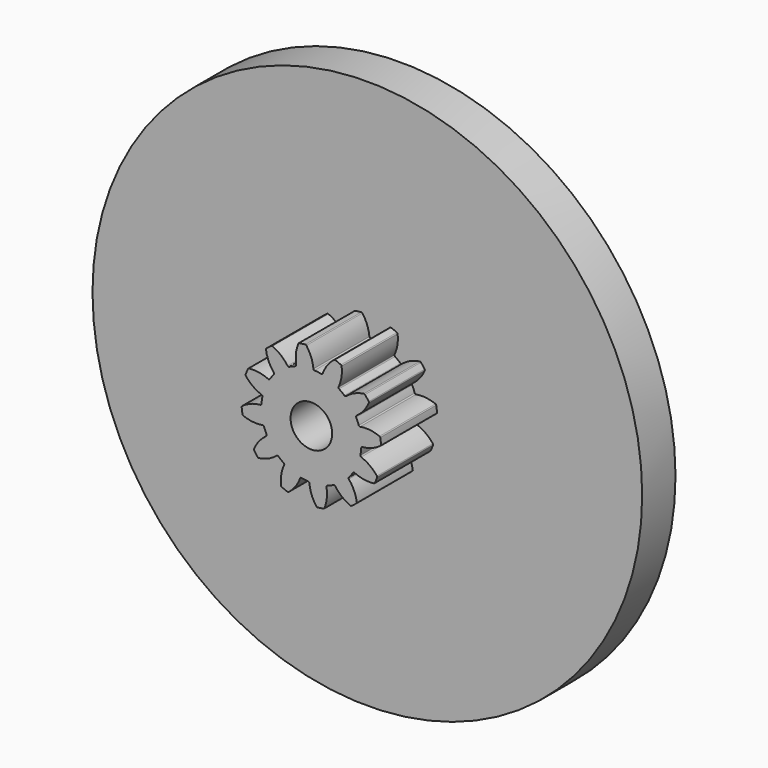
from build123d import *

# Parameters (mm, degrees)
F1_DEPTH      = 4.2
F2_R          = 16.5
F3_DEPTH      = 2.5
F4_R          = 1
F5_DEPTH      = 3.8
F6_R          = 1.25
F7_DEPTH      = 25
F7_DEPTH_BACK = 25


with BuildPart() as f1:
    # F0 (on Front) → F1 (new body)
    with BuildSketch(Plane.XZ):
        with BuildLine():
            ThreePointArc((0.121161, 3.059337), (-0.013724, 3.636669), (-0.300495, 4.15558))
            ThreePointArc((-0.300495, 4.15558), (-0.328732, 4.178157), (-0.364383, 4.184164))
            ThreePointArc((-0.364383, 4.184164), (-0.54821, 4.164068), (-0.730974, 4.135901))
            ThreePointArc((-0.730974, 4.135901), (-0.763856, 4.120872), (-0.785287, 4.091756))
            ThreePointArc((-0.785287, 4.091756), (-0.927983, 3.516305), (-0.908847, 2.923734))
            ThreePointArc((-0.908847, 2.923734), (-0.917985, 2.874655), (-0.956845, 2.843316))
            ThreePointArc((-0.956845, 2.843316), (-1.14805, 2.771639), (-1.333937, 2.68712))
            ThreePointArc((-1.333937, 2.68712), (-1.826284, 2.38006), (-2.25031, 1.983962))
            ThreePointArc((-2.25031, 1.983962), (-2.38006, 1.826284), (-2.498783, 1.660146))
            ThreePointArc((-2.498783, 1.660146), (-2.771639, 1.14805), (-2.940807, 0.593006))
            ThreePointArc((-2.940807, 0.593006), (-2.974335, 0.391579), (-2.994082, 0.188337))
            ThreePointArc((-2.994082, 0.188337), (-2.974335, -0.391579), (-2.843316, -0.956845))
            ThreePointArc((-2.843316, -0.956845), (-2.771639, -1.14805), (-2.68712, -1.333937))
            ThreePointArc((-2.68712, -1.333937), (-2.38006, -1.826284), (-1.983962, -2.25031))
            ThreePointArc((-1.983962, -2.25031), (-1.826284, -2.38006), (-1.660146, -2.498783))
            ThreePointArc((-1.660146, -2.498783), (-1.14805, -2.771639), (-0.593006, -2.940807))
            ThreePointArc((-0.593006, -2.940807), (-0.391579, -2.974335), (-0.188337, -2.994082))
            ThreePointArc((-0.188337, -2.994082), (0.391579, -2.974335), (0.956845, -2.843316))
            ThreePointArc((0.956845, -2.843316), (1.14805, -2.771639), (1.333937, -2.68712))
            ThreePointArc((1.333937, -2.68712), (1.826284, -2.38006), (2.25031, -1.983962))
            ThreePointArc((2.25031, -1.983962), (2.38006, -1.826284), (2.498783, -1.660146))
            ThreePointArc((2.498783, -1.660146), (2.771639, -1.14805), (2.940807, -0.593006))
            ThreePointArc((2.940807, -0.593006), (2.974335, -0.391579), (2.994082, -0.188337))
            ThreePointArc((2.994082, -0.188337), (2.974335, 0.391579), (2.843316, 0.956845))
            ThreePointArc((2.843316, 0.956845), (2.771639, 1.14805), (2.68712, 1.333937))
            ThreePointArc((2.68712, 1.333937), (2.38006, 1.826284), (1.983962, 2.25031))
            ThreePointArc((1.983962, 2.25031), (1.826284, 2.38006), (1.660146, 2.498783))
            ThreePointArc((1.660146, 2.498783), (1.14805, 2.771639), (0.593006, 2.940807))
            ThreePointArc((0.593006, 2.940807), (0.391579, 2.974335), (0.188337, 2.994082))
            ThreePointArc((0.188337, 2.994082), (0.14269, 3.014295), (0.121161, 3.059337))
        make_face()
        with BuildLine():
            ThreePointArc((0.674783, 2.986451), (0.64233, 2.948516), (0.593006, 2.940807))
            ThreePointArc((0.593006, 2.940807), (1.14805, 2.771639), (1.660146, 2.498783))
            ThreePointArc((1.660146, 2.498783), (1.63072, 2.539112), (1.634597, 2.588883))
            ThreePointArc((1.634597, 2.588883), (1.806449, 3.15631), (1.817554, 3.749085))
            ThreePointArc((1.817554, 3.749085), (1.804388, 3.782756), (1.776517, 3.805783))
            ThreePointArc((1.776517, 3.805783), (1.60727, 3.880294), (1.434908, 3.947282))
            ThreePointArc((1.434908, 3.947282), (1.398917, 3.950708), (1.365799, 3.936208))
            ThreePointArc((1.365799, 3.936208), (0.954496, 3.5092), (0.674783, 2.986451))
        make_face()
        with BuildLine():
            ThreePointArc((2.077604, 2.248951), (2.030532, 2.232325), (1.983962, 2.25031))
            ThreePointArc((1.983962, 2.25031), (2.38006, 1.826284), (2.68712, 1.333937))
            ThreePointArc((2.68712, 1.333937), (2.681801, 1.383575), (2.710044, 1.42474))
            ThreePointArc((2.710044, 1.42474), (3.142586, 1.83022), (3.44859, 2.338026))
            ThreePointArc((3.44859, 2.338026), (3.454024, 2.373769), (3.441401, 2.407647))
            ThreePointArc((3.441401, 2.407647), (3.332084, 2.556798), (3.216308, 2.700993))
            ThreePointArc((3.216308, 2.700993), (3.186852, 2.721955), (3.150921, 2.725957))
            ThreePointArc((3.150921, 2.725957), (2.581218, 2.561809), (2.077604, 2.248951))
        make_face()
        with BuildLine():
            ThreePointArc((-2.25031, 1.983962), (-1.826284, 2.38006), (-1.333937, 2.68712))
            ThreePointArc((-1.333937, 2.68712), (-1.383575, 2.681801), (-1.42474, 2.710044))
            ThreePointArc((-1.42474, 2.710044), (-1.83022, 3.142586), (-2.338026, 3.44859))
            ThreePointArc((-2.338026, 3.44859), (-2.373769, 3.454024), (-2.407647, 3.441401))
            ThreePointArc((-2.407647, 3.441401), (-2.556798, 3.332084), (-2.700993, 3.216308))
            ThreePointArc((-2.700993, 3.216308), (-2.721955, 3.186852), (-2.725957, 3.150921))
            ThreePointArc((-2.725957, 3.150921), (-2.561809, 2.581218), (-2.248951, 2.077604))
            ThreePointArc((-2.248951, 2.077604), (-2.232325, 2.030532), (-2.25031, 1.983962))
        make_face()
        with BuildLine():
            ThreePointArc((2.923734, 0.908847), (2.874655, 0.917985), (2.843316, 0.956845))
            ThreePointArc((2.843316, 0.956845), (2.974335, 0.391579), (2.994082, -0.188337))
            ThreePointArc((2.994082, -0.188337), (3.014295, -0.14269), (3.059337, -0.121161))
            ThreePointArc((3.059337, -0.121161), (3.636669, 0.013724), (4.15558, 0.300495))
            ThreePointArc((4.15558, 0.300495), (4.178157, 0.328732), (4.184164, 0.364383))
            ThreePointArc((4.184164, 0.364383), (4.164068, 0.54821), (4.135901, 0.730974))
            ThreePointArc((4.135901, 0.730974), (4.120872, 0.763856), (4.091756, 0.785287))
            ThreePointArc((4.091756, 0.785287), (3.516305, 0.927983), (2.923734, 0.908847))
        make_face()
        with BuildLine():
            ThreePointArc((-2.940807, 0.593006), (-2.771639, 1.14805), (-2.498783, 1.660146))
            ThreePointArc((-2.498783, 1.660146), (-2.539112, 1.63072), (-2.588883, 1.634597))
            ThreePointArc((-2.588883, 1.634597), (-3.15631, 1.806449), (-3.749085, 1.817554))
            ThreePointArc((-3.749085, 1.817554), (-3.782756, 1.804388), (-3.805783, 1.776517))
            ThreePointArc((-3.805783, 1.776517), (-3.880294, 1.60727), (-3.947282, 1.434908))
            ThreePointArc((-3.947282, 1.434908), (-3.950708, 1.398917), (-3.936208, 1.365799))
            ThreePointArc((-3.936208, 1.365799), (-3.5092, 0.954496), (-2.986451, 0.674783))
            ThreePointArc((-2.986451, 0.674783), (-2.948516, 0.64233), (-2.940807, 0.593006))
        make_face()
        with BuildLine():
            ThreePointArc((2.986451, -0.674783), (2.948516, -0.64233), (2.940807, -0.593006))
            ThreePointArc((2.940807, -0.593006), (2.771639, -1.14805), (2.498783, -1.660146))
            ThreePointArc((2.498783, -1.660146), (2.539112, -1.63072), (2.588883, -1.634597))
            ThreePointArc((2.588883, -1.634597), (3.15631, -1.806449), (3.749085, -1.817554))
            ThreePointArc((3.749085, -1.817554), (3.782756, -1.804388), (3.805783, -1.776517))
            ThreePointArc((3.805783, -1.776517), (3.880294, -1.60727), (3.947282, -1.434908))
            ThreePointArc((3.947282, -1.434908), (3.950708, -1.398917), (3.936208, -1.365799))
            ThreePointArc((3.936208, -1.365799), (3.5092, -0.954496), (2.986451, -0.674783))
        make_face()
        with BuildLine():
            ThreePointArc((-2.843316, -0.956845), (-2.974335, -0.391579), (-2.994082, 0.188337))
            ThreePointArc((-2.994082, 0.188337), (-3.014295, 0.14269), (-3.059337, 0.121161))
            ThreePointArc((-3.059337, 0.121161), (-3.636669, -0.013724), (-4.15558, -0.300495))
            ThreePointArc((-4.15558, -0.300495), (-4.178157, -0.328732), (-4.184164, -0.364383))
            ThreePointArc((-4.184164, -0.364383), (-4.164068, -0.54821), (-4.135901, -0.730974))
            ThreePointArc((-4.135901, -0.730974), (-4.120872, -0.763856), (-4.091756, -0.785287))
            ThreePointArc((-4.091756, -0.785287), (-3.516305, -0.927983), (-2.923734, -0.908847))
            ThreePointArc((-2.923734, -0.908847), (-2.874655, -0.917985), (-2.843316, -0.956845))
        make_face()
        with BuildLine():
            ThreePointArc((2.248951, -2.077604), (2.232325, -2.030532), (2.25031, -1.983962))
            ThreePointArc((2.25031, -1.983962), (1.826284, -2.38006), (1.333937, -2.68712))
            ThreePointArc((1.333937, -2.68712), (1.383575, -2.681801), (1.42474, -2.710044))
            ThreePointArc((1.42474, -2.710044), (1.83022, -3.142586), (2.338026, -3.44859))
            ThreePointArc((2.338026, -3.44859), (2.373769, -3.454024), (2.407647, -3.441401))
            ThreePointArc((2.407647, -3.441401), (2.556798, -3.332084), (2.700993, -3.216308))
            ThreePointArc((2.700993, -3.216308), (2.721955, -3.186852), (2.725957, -3.150921))
            ThreePointArc((2.725957, -3.150921), (2.561809, -2.581218), (2.248951, -2.077604))
        make_face()
        with BuildLine():
            ThreePointArc((-1.983962, -2.25031), (-2.38006, -1.826284), (-2.68712, -1.333937))
            ThreePointArc((-2.68712, -1.333937), (-2.681801, -1.383575), (-2.710044, -1.42474))
            ThreePointArc((-2.710044, -1.42474), (-3.142586, -1.83022), (-3.44859, -2.338026))
            ThreePointArc((-3.44859, -2.338026), (-3.454024, -2.373769), (-3.441401, -2.407647))
            ThreePointArc((-3.441401, -2.407647), (-3.332084, -2.556798), (-3.216308, -2.700993))
            ThreePointArc((-3.216308, -2.700993), (-3.186852, -2.721955), (-3.150921, -2.725957))
            ThreePointArc((-3.150921, -2.725957), (-2.581218, -2.561809), (-2.077604, -2.248951))
            ThreePointArc((-2.077604, -2.248951), (-2.030532, -2.232325), (-1.983962, -2.25031))
        make_face()
        with BuildLine():
            ThreePointArc((0.908847, -2.923734), (0.917985, -2.874655), (0.956845, -2.843316))
            ThreePointArc((0.956845, -2.843316), (0.391579, -2.974335), (-0.188337, -2.994082))
            ThreePointArc((-0.188337, -2.994082), (-0.14269, -3.014295), (-0.121161, -3.059337))
            ThreePointArc((-0.121161, -3.059337), (0.013724, -3.636669), (0.300495, -4.15558))
            ThreePointArc((0.300495, -4.15558), (0.328732, -4.178157), (0.364383, -4.184164))
            ThreePointArc((0.364383, -4.184164), (0.54821, -4.164068), (0.730974, -4.135901))
            ThreePointArc((0.730974, -4.135901), (0.763856, -4.120872), (0.785287, -4.091756))
            ThreePointArc((0.785287, -4.091756), (0.927983, -3.516305), (0.908847, -2.923734))
        make_face()
        with BuildLine():
            ThreePointArc((-0.593006, -2.940807), (-1.14805, -2.771639), (-1.660146, -2.498783))
            ThreePointArc((-1.660146, -2.498783), (-1.63072, -2.539112), (-1.634597, -2.588883))
            ThreePointArc((-1.634597, -2.588883), (-1.806449, -3.15631), (-1.817554, -3.749085))
            ThreePointArc((-1.817554, -3.749085), (-1.804388, -3.782756), (-1.776517, -3.805783))
            ThreePointArc((-1.776517, -3.805783), (-1.60727, -3.880294), (-1.434908, -3.947282))
            ThreePointArc((-1.434908, -3.947282), (-1.398917, -3.950708), (-1.365799, -3.936208))
            ThreePointArc((-1.365799, -3.936208), (-0.954496, -3.5092), (-0.674783, -2.986451))
            ThreePointArc((-0.674783, -2.986451), (-0.64233, -2.948516), (-0.593006, -2.940807))
        make_face()
    extrude(amount=F1_DEPTH)

    # F2 (on face) → F3 (join)
    with BuildSketch(Plane(origin=(0, 0, 0), x_dir=(-1, 0, 0), z_dir=(0, 1, 0))):
        Circle(F2_R)
    extrude(amount=F3_DEPTH)

    # F4 (on face) → F5 (join)
    with BuildSketch(Plane(origin=(0, 2.5, 0), x_dir=(-1, 0, 0), z_dir=(0, 1, 0))):
        with Locations((0, 11)):
            Circle(F4_R)
        with Locations((-9.526279, -5.5)):
            Circle(F4_R)
        with Locations((9.526279, -5.5)):
            Circle(F4_R)
    extrude(amount=F5_DEPTH)

    # F6 (on face) → F7 (cut, two sides)
    with BuildSketch(Plane.XZ.offset(4.2)) as f7_sk:
        Circle(F6_R)
    extrude(amount=F7_DEPTH, mode=Mode.SUBTRACT)
    extrude(f7_sk.sketch, amount=-F7_DEPTH_BACK, mode=Mode.SUBTRACT)


solid = f1.part
